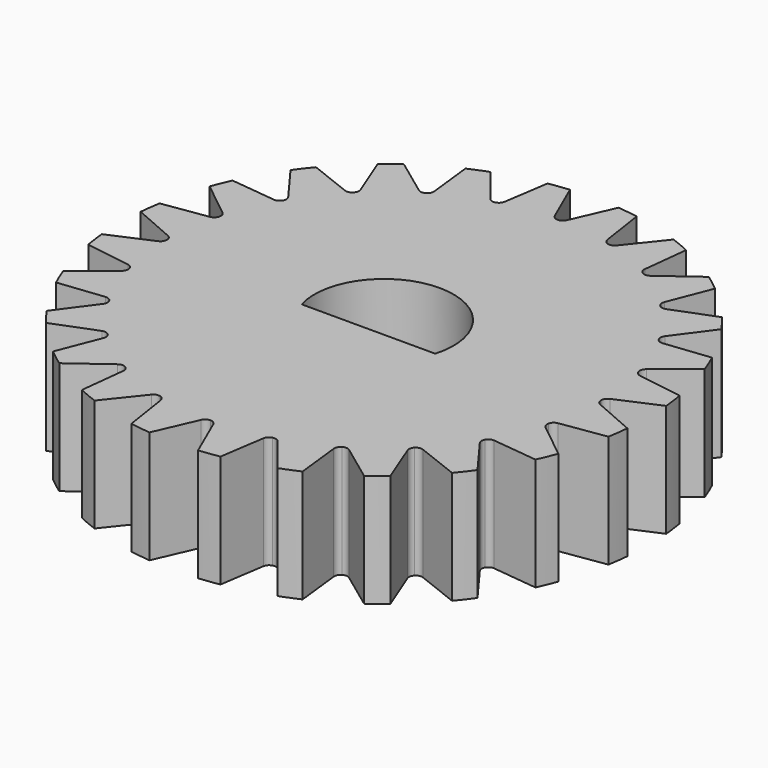
from build123d import *

# Parameters (mm, degrees)
F0_R     = 11.9016009371
F1_DEPTH = 5.08
F3_DEPTH = 5.08
F4_COUNT = 24
F4_ANGLE = 345


with BuildPart() as f1:
    # F0 (on Top) → F1 (new body)
    with BuildSketch(Plane.XY):
        Circle(F0_R)
        with BuildLine():
            ThreePointArc((-3.0120209, -0.8762828927), (0, 3.1369), (3.0120209, -0.8762828927))
            Line((3.0120209, -0.8762828927), (-3.0120209, -0.8762828927))
        make_face(mode=Mode.SUBTRACT)
    extrude(amount=F1_DEPTH)

    # F2 (on face) → F3 (cut, through all)
    with BuildSketch(Plane.XY.offset(5.08)):
        with BuildLine():
            ThreePointArc((-0.272684092, 9.968449005), (-0.1629528148, 9.8385506215), (0, 9.7899612874))
            Line((0, 9.7899612874), (0, 11.9016009371))
            ThreePointArc((0, 11.9016009371), (-0.5479117768, 11.8889821916), (-1.0946616999, 11.8511527131))
            Line((-1.0946616999, 11.8511527131), (-0.272684092, 9.968449005))
        make_face()
        with BuildLine():
            Line((0, 11.9016009371), (0, 9.7899612874))
            ThreePointArc((0, 9.7899612874), (0.1629528148, 9.8385506215), (0.272684092, 9.968449005))
            Line((0.272684092, 9.968449005), (1.0946616999, 11.8511527131))
            ThreePointArc((1.0946616999, 11.8511527131), (0.5479117768, 11.8889821916), (0, 11.9016009371))
        make_face()
    f3 = extrude(amount=-F3_DEPTH, mode=Mode.SUBTRACT)

    # F4: F3 ×24 about axis
    f4_axis = Axis((0, 0, 0), (0, 0, -1))
    for i in range(1, F4_COUNT):
        add(f3.rotate(f4_axis, i * F4_ANGLE / (F4_COUNT - 1)), mode=Mode.SUBTRACT)


solid = f1.part
